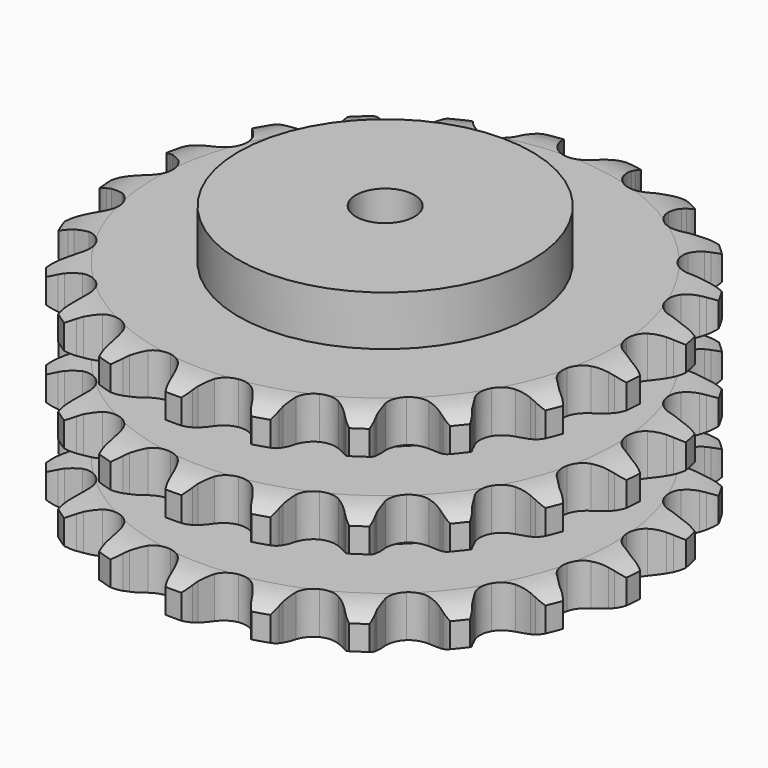
from build123d import *

# Parameters (mm, degrees)
PAD_DEPTH         = 146
SKETCH001_R       = 100
PAD001_DEPTH      = 180
SKETCH002_R       = 20
POCKET_DEPTH      = 0.001
POCKET_DEPTH_BACK = 180.001


with BuildPart() as part:
    # Sprocket → Pad (new body)
    with BuildSketch(Plane.XY):
        with BuildLine():
            ThreePointArc((-27.87521, 184.939934), (-22.104018, 180.030351), (-18.139058, 173.573592))
            Line((-18.139058, 173.573592), (-16.729035, 170.173492))
            ThreePointArc((-16.729035, 170.173492), (-14.468284, 165.610673), (-11.619019, 161.390247))
            ThreePointArc((-11.619019, 161.390247), (-6.467609, 157.202743), (0, 155.705331))
            ThreePointArc((0, 155.705331), (6.467609, 157.202743), (11.619019, 161.390247))
            ThreePointArc((11.619019, 161.390247), (14.468284, 165.610673), (16.729035, 170.173492))
            Line((16.729035, 170.173492), (18.139058, 173.573592))
            ThreePointArc((18.139058, 173.573592), (22.104018, 180.030351), (27.87521, 184.939934))
            ThreePointArc((27.87521, 184.939934), (31.942879, 178.547382), (33.828524, 171.208785))
            Line((33.828524, 171.208785), (34.173706, 167.544131))
            ThreePointArc((34.173706, 167.544131), (34.989104, 162.517657), (36.467792, 157.644897))
            ThreePointArc((36.467792, 157.644897), (40.156051, 152.125027), (45.894952, 148.78778))
            ThreePointArc((45.894952, 148.78778), (52.516593, 148.312305), (58.673429, 150.795365))
            Line((58.673429, 150.795365), (66.145329, 157.682192))
            ThreePointArc((66.145329, 157.682192), (67.285865, 159.12731), (68.494905, 160.515623))
            ThreePointArc((68.494905, 160.515623), (74.186877, 165.516834), (81.148795, 168.507209))
            ThreePointArc((81.148795, 168.507209), (83.151511, 161.199694), (82.790293, 153.631327))
            Line((82.790293, 153.631327), (82.039964, 150.027739))
            ThreePointArc((82.039964, 150.027739), (81.337556, 144.984234), (81.314279, 139.892106))
            ThreePointArc((81.314279, 139.892106), (83.211669, 133.530336), (87.711936, 128.649782))
            ThreePointArc((87.711936, 128.649782), (93.899248, 126.243668), (100.514447, 126.801653))
            Line((100.514447, 126.801653), (109.684319, 131.180136))
            ThreePointArc((109.684319, 131.180136), (111.200141, 132.224873), (112.764679, 133.195136))
            ThreePointArc((112.764679, 133.195136), (119.677905, 136.29642), (127.211954, 137.101879))
            ThreePointArc((127.211954, 137.101879), (126.971766, 129.528706), (124.395781, 122.403051))
            Line((124.395781, 122.403051), (122.616611, 119.180723))
            ThreePointArc((122.616611, 119.180723), (120.45881, 114.568326), (118.935636, 109.709287))
            ThreePointArc((118.935636, 109.709287), (118.873565, 103.070887), (121.73533, 97.080686))
            ThreePointArc((121.73533, 97.080686), (126.938542, 92.957727), (133.424315, 91.541058))
            Line((133.424315, 91.541058), (143.477377, 93.02215))
            ThreePointArc((143.477377, 93.02215), (145.233796, 93.573676), (147.014816, 94.039678))
            ThreePointArc((147.014816, 94.039678), (154.535027, 94.96547), (161.971772, 93.514446))
            ThreePointArc((161.971772, 93.514446), (159.510023, 86.348524), (154.948158, 80.298727))
            Line((154.948158, 80.298727), (152.298234, 77.743978))
            ThreePointArc((152.298234, 77.743978), (148.87677, 73.972519), (145.98904, 69.778317))
            ThreePointArc((145.98904, 69.778317), (143.973024, 63.453139), (144.942005, 56.885545))
            ThreePointArc((144.942005, 56.885545), (148.69879, 51.412084), (154.478848, 48.146639))
            Line((154.478848, 48.146639), (164.521839, 46.598738))
            ThreePointArc((164.521839, 46.598738), (166.362791, 46.608047), (168.202042, 46.528381))
            ThreePointArc((168.202042, 46.528381), (175.661033, 45.196422), (182.339687, 41.617844))
            ThreePointArc((182.339687, 41.617844), (177.875115, 35.495896), (171.732711, 31.059509))
            Line((171.732711, 31.059509), (168.44749, 29.399338))
            ThreePointArc((168.44749, 29.399338), (164.066376, 26.803929), (160.070676, 23.647238))
            ThreePointArc((160.070676, 23.647238), (156.279847, 18.1973), (155.269947, 11.635874))
            ThreePointArc((155.269947, 11.635874), (157.246497, 5.298252), (161.807257, 0.474179))
            Line((161.807257, 0.474179), (170.947815, -3.965176))
            ThreePointArc((170.947815, -3.965176), (172.709722, -4.498911), (174.443778, -5.117167))
            ThreePointArc((174.443778, -5.117167), (181.178785, -8.588526), (186.505921, -13.976687))
            ThreePointArc((186.505921, -13.976687), (180.435221, -18.510697), (173.25806, -20.939484))
            Line((173.25806, -20.939484), (169.629448, -21.557561))
            ThreePointArc((169.629448, -21.557561), (164.677964, -22.746307), (159.929331, -24.585003))
            ThreePointArc((159.929331, -24.585003), (154.70052, -28.675449), (151.801473, -34.647696))
            ThreePointArc((151.801473, -34.647696), (151.822164, -41.286354), (154.758381, -47.240414))
            Line((154.758381, -47.240414), (162.184327, -54.176768))
            ThreePointArc((162.184327, -54.176768), (163.710637, -55.206121), (165.185419, -56.308032))
            ThreePointArc((165.185419, -56.308032), (170.598008, -61.610347), (174.100286, -68.329327))
            ThreePointArc((174.100286, -68.329327), (166.962867, -70.872534), (159.388669, -71.077911))
            Line((159.388669, -71.077911), (155.739085, -70.598977))
            ThreePointArc((155.739085, -70.598977), (150.657192, -70.275435), (145.577563, -70.632758))
            ThreePointArc((145.577563, -70.632758), (139.375374, -73.000258), (134.844772, -77.852665))
            ThreePointArc((134.844772, -77.852665), (132.907765, -84.202485), (133.958544, -90.757489))
            Line((133.958544, -90.757489), (139.01005, -99.574516))
            ThreePointArc((139.01005, -99.574516), (140.165143, -101.008026), (141.249611, -102.495681))
            ThreePointArc((141.249611, -102.495681), (144.858848, -109.157817), (146.225076, -116.610607))
            ThreePointArc((146.225076, -116.610607), (138.655129, -116.937035), (131.356896, -114.900753))
            Line((131.356896, -114.900753), (128.010621, -113.367363))
            ThreePointArc((128.010621, -113.367363), (123.249868, -111.560281), (118.290589, -110.404483))
            ThreePointArc((118.290589, -110.404483), (111.666113, -110.838674), (105.906521, -114.140084))
            ThreePointArc((105.906521, -114.140084), (102.183927, -119.636856), (101.255903, -126.210362))
            Line((101.255903, -126.210362), (103.484119, -136.124631))
            ThreePointArc((103.484119, -136.124631), (104.16536, -137.834923), (104.763155, -139.576139))
            ThreePointArc((104.763155, -139.576139), (106.248345, -147.006137), (105.357126, -154.530523))
            ThreePointArc((105.357126, -154.530523), (98.027274, -152.611168), (91.653486, -148.51416))
            Line((91.653486, -148.51416), (88.907851, -146.062562))
            ThreePointArc((88.907851, -146.062562), (84.891252, -142.932507), (80.492978, -140.366285))
            ThreePointArc((80.492978, -140.366285), (74.034828, -138.828587), (67.558011, -140.285656))
            ThreePointArc((67.558011, -140.285656), (62.3806, -144.440968), (59.55623, -150.448891))
            Line((59.55623, -150.448891), (58.763171, -160.579475))
            ThreePointArc((58.763171, -160.579475), (58.910029, -162.414583), (58.968032, -164.254645))
            ThreePointArc((58.968032, -164.254645), (58.197209, -171.792316), (55.127734, -178.719723))
            ThreePointArc((55.127734, -178.719723), (48.689266, -174.725128), (43.806261, -168.931432))
            Line((43.806261, -168.931432), (41.905229, -165.779462))
            ThreePointArc((41.905229, -165.779462), (38.989676, -161.604553), (35.543212, -157.855926))
            ThreePointArc((35.543212, -157.855926), (29.825224, -154.482971), (23.206675, -153.966231))
            ThreePointArc((23.206675, -153.966231), (17.034482, -156.410865), (12.564724, -161.319376))
            Line((12.564724, -161.319376), (8.820857, -170.766128))
            ThreePointArc((8.820857, -170.766128), (8.420283, -172.562995), (7.933341, -174.338405))
            ThreePointArc((7.933341, -174.338405), (4.974997, -181.313994), (0, -187.028892))
            ThreePointArc((0, -187.028892), (-4.974997, -181.313994), (-7.933341, -174.338405))
            Line((-7.933341, -174.338405), (-8.820857, -170.766128))
            ThreePointArc((-8.820857, -170.766128), (-10.376304, -165.917324), (-12.564724, -161.319376))
            ThreePointArc((-12.564724, -161.319376), (-17.034482, -156.410865), (-23.206675, -153.966231))
            ThreePointArc((-23.206675, -153.966231), (-29.825224, -154.482971), (-35.543212, -157.855926))
            Line((-35.543212, -157.855926), (-41.905229, -165.779462))
            ThreePointArc((-41.905229, -165.779462), (-42.817643, -167.378427), (-43.806261, -168.931432))
            ThreePointArc((-43.806261, -168.931432), (-48.689266, -174.725128), (-55.127734, -178.719723))
            ThreePointArc((-55.127734, -178.719723), (-58.197209, -171.792316), (-58.968032, -164.254645))
            Line((-58.968032, -164.254645), (-58.763171, -160.579475))
            ThreePointArc((-58.763171, -160.579475), (-58.820304, -155.487614), (-59.55623, -150.448891))
            ThreePointArc((-59.55623, -150.448891), (-62.3806, -144.440968), (-67.558011, -140.285656))
            ThreePointArc((-67.558011, -140.285656), (-74.034828, -138.828587), (-80.492978, -140.366285))
            Line((-80.492978, -140.366285), (-88.907851, -146.062562))
            ThreePointArc((-88.907851, -146.062562), (-90.251032, -147.321552), (-91.653486, -148.51416))
            ThreePointArc((-91.653486, -148.51416), (-98.027274, -152.611168), (-105.357126, -154.530523))
            ThreePointArc((-105.357126, -154.530523), (-106.248345, -147.006137), (-104.763155, -139.576139))
            Line((-104.763155, -139.576139), (-103.484119, -136.124631))
            ThreePointArc((-103.484119, -136.124631), (-102.037862, -131.242146), (-101.255903, -126.210362))
            ThreePointArc((-101.255903, -126.210362), (-102.183927, -119.636856), (-105.906521, -114.140084))
            ThreePointArc((-105.906521, -114.140084), (-111.666113, -110.838674), (-118.290589, -110.404483))
            Line((-118.290589, -110.404483), (-128.010621, -113.367363))
            ThreePointArc((-128.010621, -113.367363), (-129.665222, -114.17451), (-131.356896, -114.900753))
            ThreePointArc((-131.356896, -114.900753), (-138.655129, -116.937035), (-146.225076, -116.610607))
            ThreePointArc((-146.225076, -116.610607), (-144.858848, -109.157817), (-141.249611, -102.495681))
            Line((-141.249611, -102.495681), (-139.01005, -99.574516))
            ThreePointArc((-139.01005, -99.574516), (-136.188908, -95.335238), (-133.958544, -90.757489))
            ThreePointArc((-133.958544, -90.757489), (-132.907765, -84.202485), (-134.844772, -77.852665))
            ThreePointArc((-134.844772, -77.852665), (-139.375374, -73.000258), (-145.577563, -70.632758))
            Line((-145.577563, -70.632758), (-155.739085, -70.598977))
            ThreePointArc((-155.739085, -70.598977), (-157.558087, -70.882561), (-159.388669, -71.077911))
            ThreePointArc((-159.388669, -71.077911), (-166.962867, -70.872534), (-174.100286, -68.329327))
            ThreePointArc((-174.100286, -68.329327), (-170.598008, -61.610347), (-165.185419, -56.308032))
            Line((-165.185419, -56.308032), (-162.184327, -54.176768))
            ThreePointArc((-162.184327, -54.176768), (-158.238971, -50.957376), (-154.758381, -47.240414))
            ThreePointArc((-154.758381, -47.240414), (-151.822164, -41.286354), (-151.801473, -34.647696))
            ThreePointArc((-151.801473, -34.647696), (-154.70052, -28.675449), (-159.929331, -24.585003))
            Line((-159.929331, -24.585003), (-169.629448, -21.557561))
            ThreePointArc((-169.629448, -21.557561), (-171.451225, -21.292387), (-173.25806, -20.939484))
            ThreePointArc((-173.25806, -20.939484), (-180.435221, -18.510697), (-186.505921, -13.976687))
            ThreePointArc((-186.505921, -13.976687), (-181.178785, -8.588526), (-174.443778, -5.117167))
            Line((-174.443778, -5.117167), (-170.947815, -3.965176))
            ThreePointArc((-170.947815, -3.965176), (-166.228808, -2.051727), (-161.807257, 0.474179))
            ThreePointArc((-161.807257, 0.474179), (-157.246497, 5.298252), (-155.269947, 11.635874))
            ThreePointArc((-155.269947, 11.635874), (-156.279847, 18.1973), (-160.070676, 23.647238))
            Line((-160.070676, 23.647238), (-168.44749, 29.399338))
            ThreePointArc((-168.44749, 29.399338), (-170.11017, 30.18971), (-171.732711, 31.059509))
            ThreePointArc((-171.732711, 31.059509), (-177.875115, 35.495896), (-182.339687, 41.617844))
            ThreePointArc((-182.339687, 41.617844), (-175.661033, 45.196422), (-168.202042, 46.528381))
            Line((-168.202042, 46.528381), (-164.521839, 46.598738))
            ThreePointArc((-164.521839, 46.598738), (-159.448486, 47.036227), (-154.478848, 48.146639))
            ThreePointArc((-154.478848, 48.146639), (-148.69879, 51.412084), (-144.942005, 56.885545))
            ThreePointArc((-144.942005, 56.885545), (-143.973024, 63.453139), (-145.98904, 69.778317))
            Line((-145.98904, 69.778317), (-152.298234, 77.743978))
            ThreePointArc((-152.298234, 77.743978), (-153.654079, 78.989319), (-154.948158, 80.298727))
            ThreePointArc((-154.948158, 80.298727), (-159.510023, 86.348524), (-161.971772, 93.514446))
            ThreePointArc((-161.971772, 93.514446), (-154.535027, 94.96547), (-147.014816, 94.039678))
            Line((-147.014816, 94.039678), (-143.477377, 93.02215))
            ThreePointArc((-143.477377, 93.02215), (-138.500466, 91.944805), (-133.424315, 91.541058))
            ThreePointArc((-133.424315, 91.541058), (-126.938542, 92.957727), (-121.73533, 97.080686))
            ThreePointArc((-121.73533, 97.080686), (-118.873565, 103.070887), (-118.935636, 109.709287))
            Line((-118.935636, 109.709287), (-122.616611, 119.180723))
            ThreePointArc((-122.616611, 119.180723), (-123.545149, 120.77038), (-124.395781, 122.403051))
            ThreePointArc((-124.395781, 122.403051), (-126.971766, 129.528706), (-127.211954, 137.101879))
            ThreePointArc((-127.211954, 137.101879), (-119.677905, 136.29642), (-112.764679, 133.195136))
            Line((-112.764679, 133.195136), (-109.684319, 131.180136))
            ThreePointArc((-109.684319, 131.180136), (-105.246072, 128.683685), (-100.514447, 126.801653))
            ThreePointArc((-100.514447, 126.801653), (-93.899248, 126.243668), (-87.711936, 128.649782))
            ThreePointArc((-87.711936, 128.649782), (-83.211669, 133.530336), (-81.314279, 139.892106))
            Line((-81.314279, 139.892106), (-82.039964, 150.027739))
            ThreePointArc((-82.039964, 150.027739), (-82.45869, 151.820463), (-82.790293, 153.631327))
            ThreePointArc((-82.790293, 153.631327), (-83.151511, 161.199694), (-81.148795, 168.507209))
            ThreePointArc((-81.148795, 168.507209), (-74.186877, 165.516834), (-68.494905, 160.515623))
            Line((-68.494905, 160.515623), (-66.145329, 157.682192))
            ThreePointArc((-66.145329, 157.682192), (-62.640102, 153.988454), (-58.673429, 150.795365))
            ThreePointArc((-58.673429, 150.795365), (-52.516593, 148.312305), (-45.894952, 148.78778))
            ThreePointArc((-45.894952, 148.78778), (-40.156051, 152.125027), (-36.467792, 157.644897))
            Line((-36.467792, 157.644897), (-34.173706, 167.544131))
            ThreePointArc((-34.173706, 167.544131), (-34.045415, 169.380631), (-33.828524, 171.208785))
            ThreePointArc((-33.828524, 171.208785), (-31.942879, 178.547382), (-27.87521, 184.939934))
        make_face()
    extrude(amount=PAD_DEPTH)

    # Sketch → Groove (revolve, cut)
    with BuildSketch(Plane.XZ):
        with BuildLine():
            ThreePointArc((156.65, 0), (169.019317, 1.522732), (180.65, 6))
            Line((180.65, 6), (180.65, 22.8))
            ThreePointArc((180.65, 22.8), (169.019317, 27.277268), (156.65, 28.8))
            Line((100, 28.8), (156.65, 28.8))
            Line((100, 28.8), (100, 58.6))
            Line((100, 58.6), (156.65, 58.6))
            ThreePointArc((156.65, 58.6), (169.019317, 60.122732), (180.65, 64.6))
            Line((180.65, 81.4), (180.65, 64.6))
            ThreePointArc((180.65, 81.4), (169.019317, 85.877268), (156.65, 87.4))
            Line((100, 87.4), (156.65, 87.4))
            Line((100, 117.2), (100, 87.4))
            Line((156.65, 117.2), (100, 117.2))
            ThreePointArc((156.65, 117.2), (169.019317, 118.722732), (180.65, 123.2))
            Line((180.65, 123.2), (180.65, 140))
            ThreePointArc((180.65, 140), (169.019317, 144.477268), (156.65, 146))
            Line((156.65, 146), (190.65, 146))
            Line((190.65, 146), (190.65, 0))
            Line((156.65, 0), (190.65, 0))
        make_face()
    revolve(axis=Axis((0, 0, 0), (0, 0, 1)), mode=Mode.SUBTRACT)

    # Sketch001 → Pad001 (join)
    with BuildSketch(Plane.XY):
        Circle(SKETCH001_R)
    extrude(amount=PAD001_DEPTH)

    # Sketch002 → Pocket (cut, two sides)
    with BuildSketch(Plane.XY) as pocket_sk:
        Circle(SKETCH002_R)
    extrude(amount=-POCKET_DEPTH, mode=Mode.SUBTRACT)
    extrude(pocket_sk.sketch, amount=POCKET_DEPTH_BACK, mode=Mode.SUBTRACT)


solid = part.part
